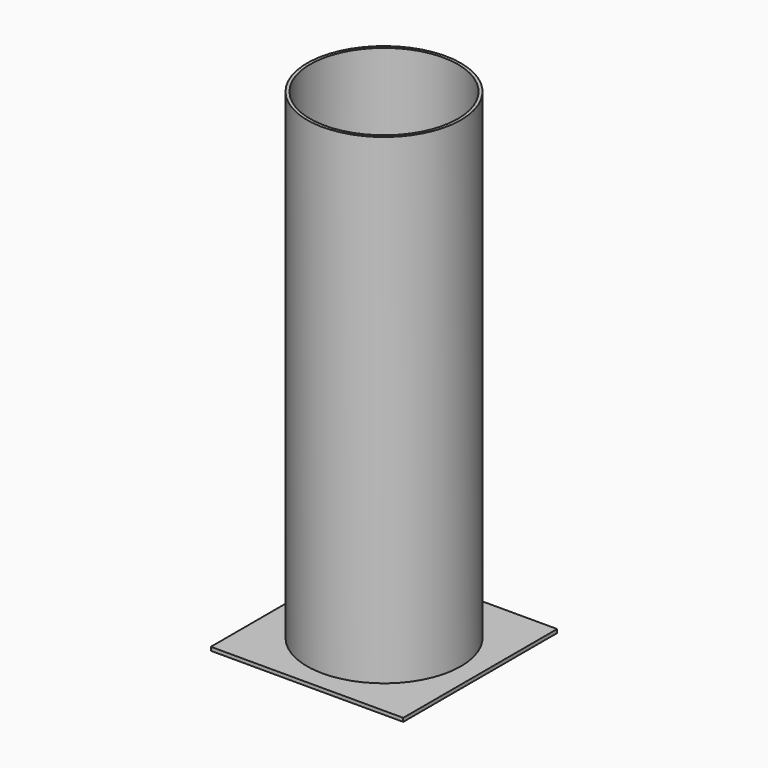
from build123d import *

# Parameters (mm, degrees)
F0_R     = 101.6
F0_R_2   = 97.536
F1_DEPTH = 635
F2_W     = 254
F2_H     = 254
F3_DEPTH = 4.7625


with BuildPart() as f1:
    # F0 (on Top) → F1 (new body)
    with BuildSketch(Plane.XY):
        Circle(F0_R)
        Circle(F0_R_2, mode=Mode.SUBTRACT)
    extrude(amount=F1_DEPTH)

    # F2 (on Top) → F3 (join)
    with BuildSketch(Plane.XY):
        Rectangle(F2_W, F2_H)
    extrude(amount=-F3_DEPTH)


solid = f1.part
